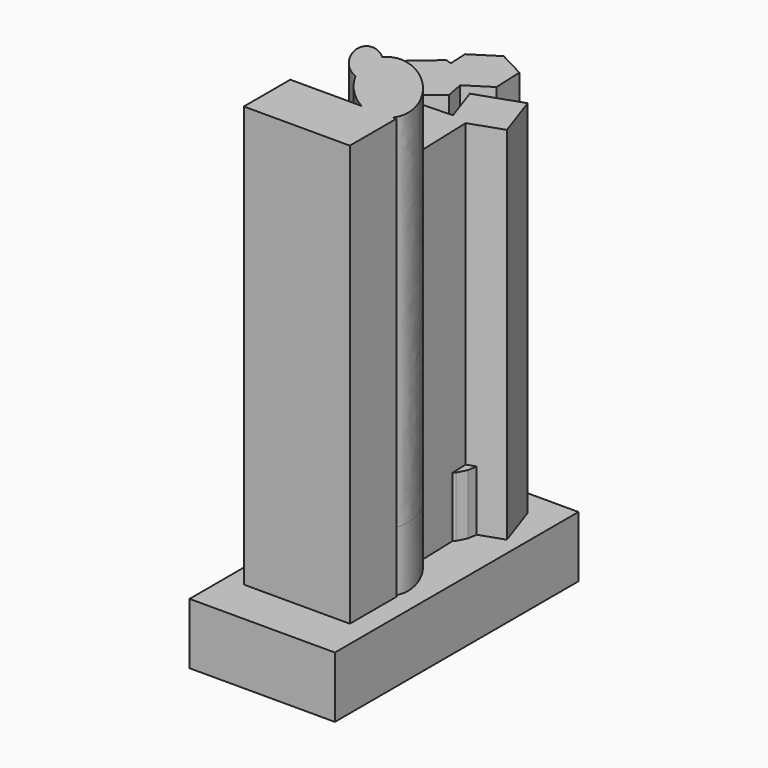
from build123d import *

# Parameters (mm, degrees)
F0_W      = 60.4223795235
F0_H      = 126.5786588192
F0_W_2    = 4.2580850422
F0_H_2    = 11.6458535194
F1_DEPTH  = 12.7
F4_DEPTH  = 25
F5_W      = 44.0693465061
F5_H      = 24.1423398256
F6_DEPTH  = 25
F7_W      = 27.9744537547
F7_H      = 6.1313877814
F8_DEPTH  = 25
F10_DEPTH = 25
F13_DEPTH = 150


with BuildPart() as f1:
    # F0 (on Top) → F1 (new body, symmetric)
    with BuildSketch(Plane.XY):
        with Locations((4.1334796697, 0)):
            Rectangle(F0_W, F0_H)
        with Locations((-20.6351820379, 32.8994877636)):
            Rectangle(F0_W_2, F0_H_2, mode=Mode.SUBTRACT)
    extrude(amount=F1_DEPTH, both=True)

    # F3 (on face) → F4 (join)
    with BuildSketch(Plane.XY.offset(12.7)):
        Polygon((9.2804457981, 43.4682284111), (5.0971903838, 44.1307909787), (0.9139349695, 43.4682284111), (-2.8598342584, 41.545396949), (-5.8547144745, 38.5505167329), (-7.7775459366, 34.776747505), (-8.4401085041, 30.5934920907), (-7.7775459366, 26.4102366764), (-5.8547144745, 22.6364674485), (-2.8598342584, 19.6415872324), (0.9139349695, 17.7187557703), (5.0971903838, 17.0561932027), (9.2804457981, 17.7187557703), (13.054215026, 19.6415872324), (16.0490952421, 22.6364674485), (17.9719267043, 26.4102366764), (18.6344892718, 30.5934920907), (17.9719267043, 34.776747505), (16.0490952421, 38.5505167329), (13.054215026, 41.545396949), align=None)
        Polygon((-2.2527005044, 26.4659842643), (5.197609196, 39.0224382281), (12.3466624599, 26.2920537797), align=None, mode=Mode.SUBTRACT)
    extrude(amount=F4_DEPTH)

    # F5 (on face) → F6 (join)
    with BuildSketch(Plane.XY.offset(12.7)):
        with Locations((3.4489056561, -32.3813892901)):
            Rectangle(F5_W, F5_H)
    extrude(amount=F6_DEPTH)

    # F7 (on Top) → F8 (join)
    with BuildSketch(Plane.XY):
        with Locations((6.1313877814, -8.0474459101)):
            Rectangle(F7_W, F7_H)
    extrude(amount=F8_DEPTH)

    # F9 (on face) → F10 (join)
    with BuildSketch(Plane.XY.offset(12.7)):
        with BuildLine():
            add(Edge.make_bspline(
                [(-3.6654782741, -5.0642236167), (-1.2137473257, -5.8734401187), (0.1916065812, -4.7901463695)],
                knots=[5.6666909862, 5.6666909862, 5.6666909862, 6.2831853072, 6.2831853072, 6.2831853072], degree=2, weights=[1, 0.9528668255, 1]))
            add(Edge.make_bspline(
                [(0.1916065812, -4.7901463695), (6.4545371904, 0.0375298105), (-5.1250907994, 10.7039809585)],
                knots=[0, 0, 0, 1.9137670292, 1.9137670292, 1.9137670292], degree=2, weights=[1, 0.5760701954, 1]))
            add(Edge.make_bspline(
                [(-5.1250907994, 10.7039809585), (-9.1468374458, 5.3420650054), (-3.6654782741, -5.0642236167)],
                knots=[0.1210246027, 0.1210246027, 0.1210246027, 1.1768049687, 1.1768049687, 1.1768049687], degree=2, weights=[1, 0.8638717322, 1]))
        make_face()
        with BuildLine():
            add(Edge.make_bspline(
                [(0.1916065812, -4.7901463695), (6.4545371904, 0.0375298105), (-5.1250907994, 10.7039809585)],
                knots=[0, 0, 0, 1.9137670292, 1.9137670292, 1.9137670292], degree=2, weights=[1, 0.5760701954, 1]))
            add(Edge.make_bspline(
                [(-3.6654782741, -5.0642236167), (-1.2137473257, -5.8734401187), (0.1916065812, -4.7901463695)],
                knots=[5.6666909862, 5.6666909862, 5.6666909862, 6.2831853072, 6.2831853072, 6.2831853072], degree=2, weights=[1, 0.9528668255, 1]))
            add(Edge.make_bspline(
                [(-3.6654782741, -5.0642236167), (7.7967294339, -26.8250748804), (21.3915865986, -22.0091251639), (34.9864437633, -17.1931754474), (18.2025562972, 2.6824818924)],
                knots=[1.1768049687, 1.1768049687, 1.1768049687, 2.9445969746, 2.9445969746, 4.7123889804, 4.7123889804, 4.7123889804], degree=2, weights=[1, 0.6341435153, 1, 0.6341435153, 1]))
            add(Edge.make_bspline(
                [(18.2025562972, 2.6824818924), (2.66192218, 21.0858654459), (-5.1250907994, 10.7039809585)],
                knots=[4.7123889804, 4.7123889804, 4.7123889804, 6.4042099098, 6.4042099098, 6.4042099098], degree=2, weights=[1, 0.6630500062, 1]))
        make_face()
        with BuildLine():
            add(Edge.make_bspline(
                [(-5.1250907994, 10.7039809585), (-9.1468374458, 5.3420650054), (-3.6654782741, -5.0642236167)],
                knots=[0.1210246027, 0.1210246027, 0.1210246027, 1.1768049687, 1.1768049687, 1.1768049687], degree=2, weights=[1, 0.8638717322, 1]))
            add(Edge.make_bspline(
                [(-5.1250907994, 10.7039809585), (-16.2578023137, 20.958759749), (-15.2138378826, 9.6808045144), (-14.1698734514, -1.5971507202), (-3.6654782741, -5.0642236167)],
                knots=[1.9137670292, 1.9137670292, 1.9137670292, 3.7902290077, 3.7902290077, 5.6666909862, 5.6666909862, 5.6666909862], degree=2, weights=[1, 0.5912156804, 1, 0.5912156804, 1]))
        make_face()
    extrude(amount=F10_DEPTH)

    # F12 (on face) + F10_face (on face) → F13 (join)
    with BuildSketch(Plane.XY.offset(12.7)):
        Polygon((-15.1200483821, 58.7558450371), (-4.268118646, 54.9524389207), (-3.0674270983, 48.5890431418), (6.9253058173, 54.9524389207), (6.3772096892, 67.5610487277), (-4.8162147741, 73.3906884605), (-15.4615431093, 66.6117183864), align=None)
        Polygon((-3.0674270983, 48.5890431418), (-4.268118646, 54.9524389207), (-15.1200483821, 58.7558450371), (-14.9134469812, 54.0031085795), (-3.7200225179, 48.1734688466), align=None)
        Polygon((-1.6542957296, 41.0997639807), (-3.0674270983, 48.5890431418), (-3.7200225179, 48.1734688466), (-14.9134469812, 54.0031085795), (-15.1200483821, 58.7558450371), (-17.5717985126, 59.6151393441), (-28.2616554628, 50.4251648275), (-25.6478325464, 36.5724898875), (-12.3441526798, 31.9097894641), align=None)
        Polygon((28.3961594105, 33.5202328861), (21.9387635589, 52.3932985961), (3.0656978488, 45.9359027445), (8.3079936012, 30.6142166531), (14.9058774114, 30.8326855302), (14.9690065658, 28.9261493169), align=None)
        Polygon((15.9268081188, 0), (14.9690065658, 28.9261493169), (9.5230937004, 27.0628370345), (8.3079936012, 30.6142166531), (-15.9268081188, 29.8117548227), (-14.9058774114, -1.0209307075), align=None)
        Polygon((9.5230937004, 27.0628370345), (14.9690065658, 28.9261493169), (14.9058774114, 30.8326855302), (8.3079936012, 30.6142166531), align=None)
    with BuildSketch(Plane(origin=(4.9113998877, -19.1714286629, 37.7), x_dir=(1, 0, 0), z_dir=(0, 0, 1))):
        with BuildLine():
            Line((20.5721790215, -25.2811305401), (20.5721790215, -1.1387907144))
            Line((20.5721790215, -1.1387907144), (19.0393327914, -1.1387907144))
            add(Edge.make_bspline(
                [(19.0393327914, -1.1387907144), (21.2490059306, 1.3356954103), (22.1859609961, 5.7952845742), (20.4843675369, 11.8248238632), (16.8415372864, 17.6495119094), (9.1694693906, 26.7348559867), (2.9158744634, 32.08683227), (-3.618455925, 34.3337423373), (-7.9712190855, 32.6288930507), (-10.0364906871, 29.8754096213)],
                knots=[3.2381563984, 3.2381563984, 3.2381563984, 3.2381563984, 3.2381563984, 3.2381563984, 4.7123889804, 4.7123889804, 4.7123889804, 4.7123889804, 6.4238462878, 6.4238462878, 6.4238462878, 6.4238462878, 6.4238462878, 6.4238462878], degree=5, weights=[0.9897321171, 0.9732134667, 0.9503985365, 0.9627650148, 1, 1, 0.9545858807, 0.9545858807, 1, 1]))
            add(Edge.make_bspline(
                [(-10.0364906871, 29.8754096213), (-21.1692022014, 40.1301884118), (-20.1252377703, 28.8522331772), (-19.0812733391, 17.5742779427), (-8.5768781618, 14.1072050461)],
                knots=[1.9137670292, 1.9137670292, 1.9137670292, 3.7902290077, 3.7902290077, 5.6666909862, 5.6666909862, 5.6666909862], degree=2, weights=[1, 0.5912156804, 1, 0.5912156804, 1]))
            add(Edge.make_bspline(
                [(-8.5768781618, 14.1072050461), (-6.867540918, 10.8620506684), (-4.3486920685, 7.1585507312), (-1.0610908327, 3.5964338438), (2.6377751049, 0.7453286942), (6.2308483777, -1.1387907144)],
                knots=[1.1768049687, 1.1768049687, 1.1768049687, 1.1768049687, 1.1768049687, 1.1768049687, 2.2161101678, 2.2161101678, 2.2161101678, 2.2161101678, 2.2161101678, 2.2161101678], degree=5, weights=[1, 1, 0.9814943061, 0.9662423378, 0.9632109021, 0.968574194]))
            Line((6.2308483777, -1.1387907144), (-23.4971674847, -1.1387907144))
            Line((-23.4971674847, -1.1387907144), (-23.4971674847, -25.2811305401))
            Line((-23.4971674847, -25.2811305401), (20.5721790215, -25.2811305401))
        make_face()
    extrude(amount=F13_DEPTH)


solid = f1.part
